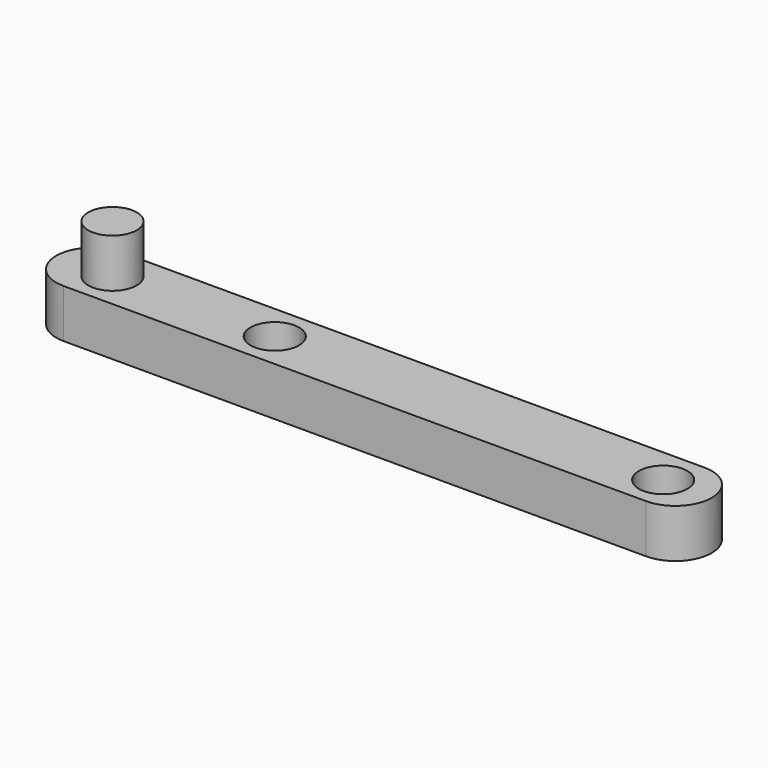
from build123d import *

# Parameters (mm, degrees)
F1_DEPTH = 12.7
F2_R     = 6.35
F3_DEPTH = 25.4
F4_R     = 6.35
F5_DEPTH = 12.7


with BuildPart() as f1:
    # F0 (on Top) → F1 (new body)
    with BuildSketch(Plane.XY):
        with BuildLine():
            Line((-152.4, 0), (0, 0))
            ThreePointArc((0, 0), (9.525, 9.525), (0, 19.05))
            Line((0, 19.05), (-152.4, 19.05))
            ThreePointArc((-152.4, 19.05), (-161.925, 9.525), (-152.4, 0))
        make_face()
    extrude(amount=F1_DEPTH)

    # F2 (on face) → F3 (cut)
    with BuildSketch(Plane.XY.offset(12.7)):
        with Locations((-104.775, 9.525)):
            Circle(F2_R)
        with Locations((-3.175, 9.525)):
            Circle(F2_R)
    extrude(amount=-F3_DEPTH, mode=Mode.SUBTRACT)

    # F4 (on face) → F5 (join)
    with BuildSketch(Plane.XY.offset(12.7)):
        with Locations((-147.214279, 9.525)):
            Circle(F4_R)
    extrude(amount=F5_DEPTH)


solid = f1.part
